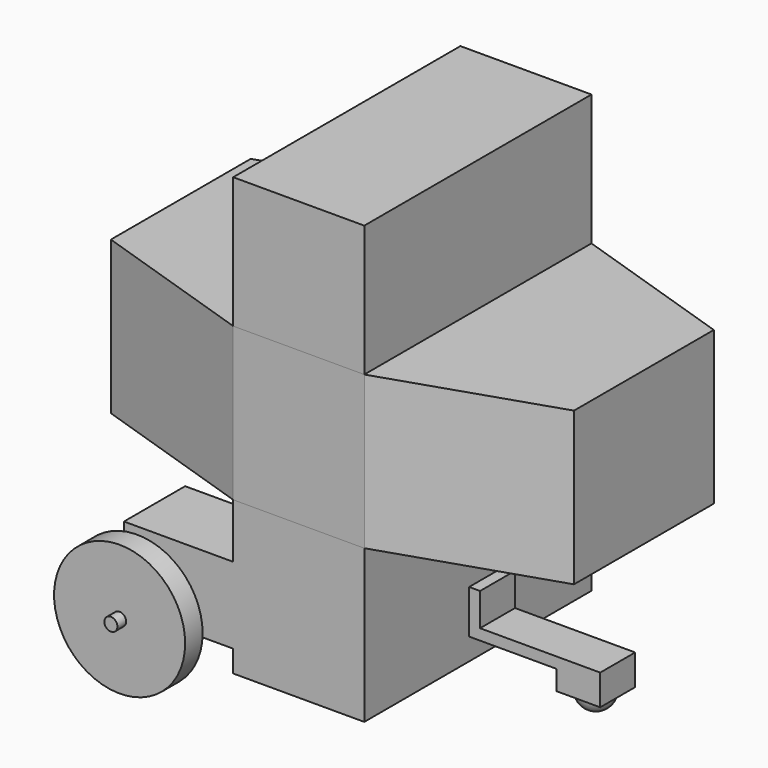
from build123d import *

# Parameters (mm, degrees)
BOX_W             = 60
BOX_H             = 130
BOX_DEPTH         = 70
BOX001_W          = 60
BOX001_H          = 130
BOX001_DEPTH      = 60
PAD_DEPTH         = 70
BOX004_W          = 65
BOX004_H          = 20
BOX004_DEPTH      = 5
BOX003_W          = 10
BOX003_H          = 20
BOX003_DEPTH      = 20
BOX006_W          = 20
BOX006_H          = 20
BOX006_DEPTH      = 10
BOX005_W          = 50
BOX005_H          = 35
BOX005_DEPTH      = 35
ARRAY001_Y_COUNT  = 2
ARRAY001_Y_PITCH  = 95
CYLINDER001_R     = 30
CYLINDER001_DEPTH = 10
CYLINDER_R        = 3
CYLINDER_DEPTH    = 20
ARRAY_X_COUNT     = 2
ARRAY_X_PITCH     = 150
ARRAY_ROLL_ANGLE  = -90
BOX002_W          = 60
BOX002_H          = 130
BOX002_DEPTH      = 70


with BuildPart() as control:
    # Box → Box (new body)
    with BuildSketch(Plane.XY):
        with Locations((30, 65)):
            Rectangle(BOX_W, BOX_H)
    extrude(amount=BOX_DEPTH)


with BuildPart() as obj1:
    # Box001 → Box001 (new body)
    with BuildSketch(Plane.XY.offset(70)):
        with Locations((30, 65)):
            Rectangle(BOX001_W, BOX001_H)
    extrude(amount=BOX001_DEPTH)


with BuildPart() as obj2:
    # Sketch → Pad (new body)
    with BuildSketch(Plane.XY):
        Polygon((0, 130), (0, 0), (-76, 25), (-76, 105), align=None)
    extrude(amount=PAD_DEPTH)


with BuildPart() as obj3:
    # Part__Mirroring: instance of obj2
    add(obj2.part.mirror(Plane(origin=(0, 0, 0), x_dir=(0, -1, 0), z_dir=(1, 0, 0))))


with BuildPart() as obj3_1:
    # Part__Mirroring placement: moved
    add(obj3.part.moved(Location((60, 0, 0))))


with BuildPart() as obj4:
    # Fusion base: copy of obj2
    add(obj2.part)

    # Fusion: union obj3
    add(obj3_1.part)


with BuildPart() as cubo001:
    # Box004 → Box004 (new body)
    with BuildSketch(Plane.XY):
        with Locations((32.5, 10)):
            Rectangle(BOX004_W, BOX004_H)
    extrude(amount=BOX004_DEPTH)


with BuildPart() as l2:
    # Box003 → Box003 (new body)
    with BuildSketch(Plane.XY):
        with Locations((5, 10)):
            Rectangle(BOX003_W, BOX003_H)
    extrude(amount=BOX003_DEPTH)

    # Fusion001: union Cubo001
    add(cubo001.part)


with BuildPart() as l2_1:
    # Fusion001 placement: moved
    add(l2.part.moved(Location((55, 60, -60))))


with BuildPart() as esfera:
    # Sphere → Sphere (revolve)
    with BuildSketch(Plane(origin=(10, 10, 0), x_dir=(1, 0, 0), z_dir=(0, -1, 0))):
        with BuildLine():
            ThreePointArc((0, -8), (8, 0), (0, 8))
            Line((0, 8), (0, -8))
        make_face()
    revolve(axis=Axis((10, 10, 0), (0, 0, 1)))


with BuildPart() as fusion006:
    # Box006 → Box006 (new body)
    with BuildSketch(Plane.XY):
        with Locations((10, 10)):
            Rectangle(BOX006_W, BOX006_H)
    extrude(amount=BOX006_DEPTH)

    # Fusion005: union Esfera
    add(esfera.part)


with BuildPart() as fusion006_1:
    # Fusion005 placement: moved
    add(fusion006.part.moved(Location((100, 60, -69))))

    # Fusion006: union L2
    add(l2_1.part)


with BuildPart() as l4:
    # Box005 → Box005 (new body)
    with BuildSketch(Plane.XY):
        with Locations((25, 17.5)):
            Rectangle(BOX005_W, BOX005_H)
    extrude(amount=BOX005_DEPTH)

    # Array001 Y: L4 ×2


with BuildPart() as l4_1:
    add(l4.part)
    with Locations(*[(0, i * ARRAY001_Y_PITCH, 0) for i in range(1, ARRAY001_Y_COUNT)]):
        add(l4.part)


with BuildPart() as l4_2:
    # Array001 placement: moved
    add(l4_1.part.moved(Location((-50, 0, -60))))


with BuildPart() as cilindro001:
    # Cylinder001 → Cylinder001 (new body)
    with BuildSketch(Plane.XY):
        Circle(CYLINDER001_R)
    extrude(amount=CYLINDER001_DEPTH)


with BuildPart() as fusion003:
    # Cylinder → Cylinder (new body)
    with BuildSketch(Plane.XY.offset(-5)):
        Circle(CYLINDER_R)
    extrude(amount=CYLINDER_DEPTH)

    # Fusion002: union Cilindro001
    add(cilindro001.part)

    # Array X: Fusion003 ×2


with BuildPart() as fusion003_1:
    add(fusion003.part)
    with Locations(*[(0, 0, i * ARRAY_X_PITCH) for i in range(1, ARRAY_X_COUNT)]):
        add(fusion003.part)


with BuildPart() as fusion003_2:
    # Array roll: moved
    add(fusion003_1.part.rotate(Axis((0, 0, 0), (1, 0, 0)), ARRAY_ROLL_ANGLE))


with BuildPart() as fusion003_3:
    # Array placement: moved
    add(fusion003_2.part.moved(Location((-40, -15, -55))))

    # Fusion003: union L4
    add(l4_2.part)


with BuildPart() as obj5:
    # Box002 → Box002 (new body)
    with BuildSketch(Plane.XY.offset(-70)):
        with Locations((30, 65)):
            Rectangle(BOX002_W, BOX002_H)
    extrude(amount=BOX002_DEPTH)

    # Fusion004: union Fusion003
    add(fusion003_3.part)

    # Fusion007: union Fusion006
    add(fusion006_1.part)


solid = Compound([control.part, obj1.part, obj4.part, obj5.part])
